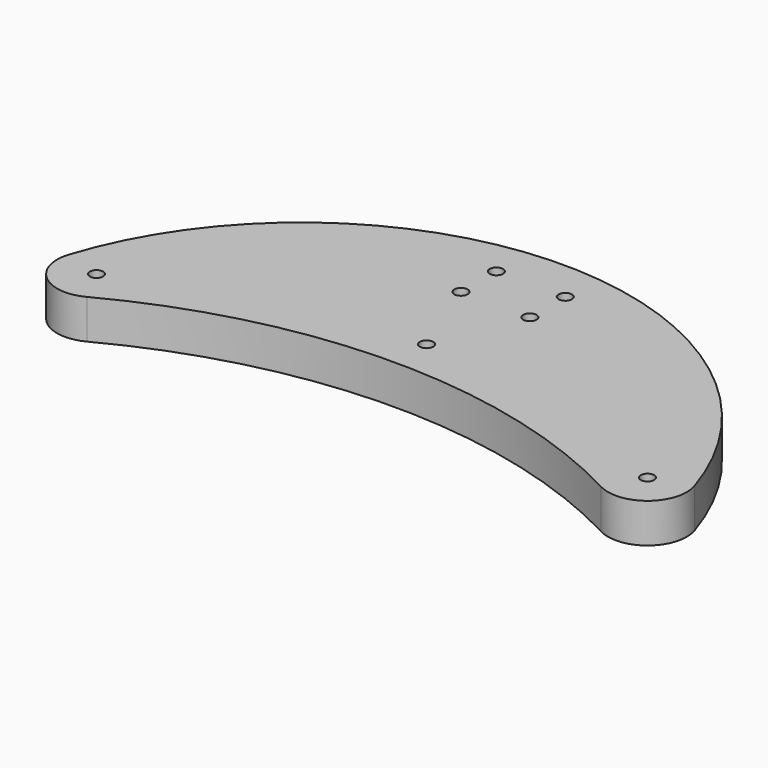
from build123d import *

# Parameters (mm, degrees)
F0_R     = 2.15265
F1_DEPTH = 12.7


with BuildPart() as f1:
    # F0 (on Top) → F1 (new body)
    with BuildSketch(Plane.XY):
        with BuildLine():
            ThreePointArc((18.626667, 4.852237), (101.6, 25.4), (184.573333, 4.852237))
            ThreePointArc((184.573333, 4.852237), (198.667536, 6.359245), (202.587506, 19.980973))
            ThreePointArc((202.587506, 19.980973), (101.6, 93.532141), (0.612494, 19.980973))
            ThreePointArc((0.612494, 19.980973), (4.532464, 6.359245), (18.626667, 4.852237))
        make_face()
        with Locations((12.7, 16.084539)):
            Circle(F0_R, mode=Mode.SUBTRACT)
        with Locations((101.6, 38.1)):
            Circle(F0_R, mode=Mode.SUBTRACT)
        with Locations((190.5, 16.084539)):
            Circle(F0_R, mode=Mode.SUBTRACT)
        with Locations((90.4875, 65.88125)):
            Circle(F0_R, mode=Mode.SUBTRACT)
        with Locations((90.4875, 80.16875)):
            Circle(F0_R, mode=Mode.SUBTRACT)
        with Locations((112.7125, 65.88125)):
            Circle(F0_R, mode=Mode.SUBTRACT)
        with Locations((112.7125, 80.16875)):
            Circle(F0_R, mode=Mode.SUBTRACT)
    extrude(amount=F1_DEPTH)


solid = f1.part
